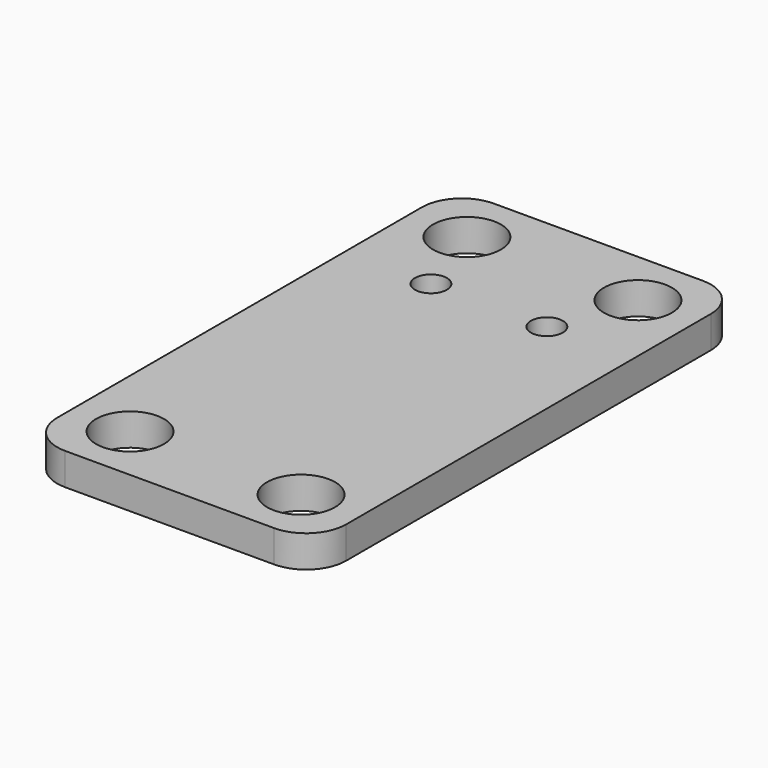
from build123d import *

# Parameters (mm, degrees)
F0_W     = 36.13
F0_H     = 67
F0_R     = 4.25
F0_R_2   = 2
F1_DEPTH = 4
F2_R     = 5


with BuildPart() as f1:
    # F0 (on Top) → F1 (new body)
    with BuildSketch(Plane.XY):
        Rectangle(F0_W, F0_H)
        with Locations((-10.693816, -26.33377)):
            Circle(F0_R, mode=Mode.SUBTRACT)
        with Locations((10.693816, -26.33377)):
            Circle(F0_R, mode=Mode.SUBTRACT)
        with Locations((-7.25, 16.394814)):
            Circle(F0_R_2, mode=Mode.SUBTRACT)
        with Locations((-10.693816, 26.33377)):
            Circle(F0_R, mode=Mode.SUBTRACT)
        with Locations((7.25, 16.394814)):
            Circle(F0_R_2, mode=Mode.SUBTRACT)
        with Locations((10.693816, 26.33377)):
            Circle(F0_R, mode=Mode.SUBTRACT)
    extrude(amount=F1_DEPTH)

    # F2
    f2_edges = [f1.edges().sort_by_distance(p)[0] for p in [
        (18.065, -33.5, 2),
        (-18.065, -33.5, 2),
        (18.065, 33.5, 2),
        (-18.065, 33.5, 2),
    ]]
    fillet(f2_edges, radius=F2_R)


solid = f1.part
